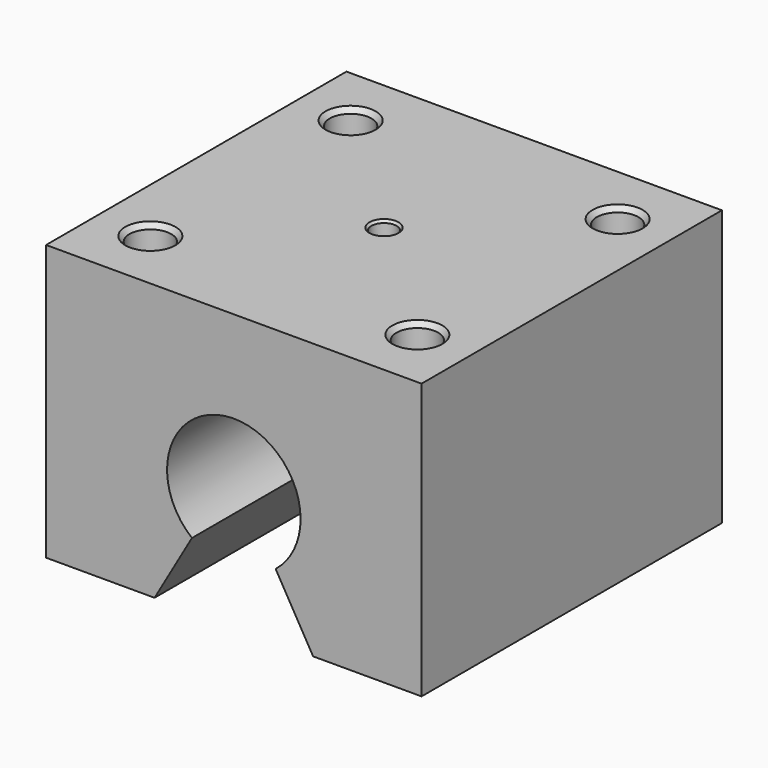
from build123d import *

# Parameters (mm, degrees)
F1_DEPTH       = 45
F5_D           = 5
F5_DEPTH       = 12
F5_CSINK_D     = 6
F5_CSINK_ANGLE = 80
F5_TIP         = 1.5021515476
F6_D           = 3
F6_DEPTH       = 5
F6_CSINK_D     = 3.5
F6_CSINK_ANGLE = 80
F6_TIP         = 0.9012909285


with BuildPart() as f1:
    # F0 (on Front) → F1 (new body)
    with BuildSketch(Plane.XZ):
        with BuildLine():
            Line((9.5, 0), (22.5, 0))
            Line((22.5, 0), (22.5, 33))
            Line((22.5, 33), (0, 33))
            Line((0, 33), (-22.5, 33))
            Line((-22.5, 33), (-22.5, 0))
            Line((-22.5, 0), (-9.5, 0))
            Line((-9.5, 0), (-5.0154756716, 7.7674239846))
            ThreePointArc((-5.0154756716, 7.7674239846), (-3.4551551794, 21.2153934533), (8, 14))
            ThreePointArc((8, 14), (7.2153934533, 10.5448448206), (5.0154756716, 7.7674239846))
            Line((5.0154756716, 7.7674239846), (9.5, 0))
        make_face()
    extrude(amount=F1_DEPTH)

    # F5
    with Locations(Plane.XY.offset(33)):
        with Locations((-16, -7.5), (-16, -37.5), (16, -37.5), (16, -7.5)):
            CounterSinkHole(F5_D / 2, F5_CSINK_D / 2, depth=F5_DEPTH, counter_sink_angle=F5_CSINK_ANGLE)
            with Locations((0, 0, -(F5_DEPTH + F5_TIP / 2))):  # 118° drill point
                Cone(0, F5_D / 2, F5_TIP, mode=Mode.SUBTRACT)

    # F6
    with Locations(Plane.XY.offset(33)):
        with Locations((0, -22.5)):
            CounterSinkHole(F6_D / 2, F6_CSINK_D / 2, depth=F6_DEPTH, counter_sink_angle=F6_CSINK_ANGLE)
            with Locations((0, 0, -(F6_DEPTH + F6_TIP / 2))):  # 118° drill point
                Cone(0, F6_D / 2, F6_TIP, mode=Mode.SUBTRACT)


solid = f1.part
